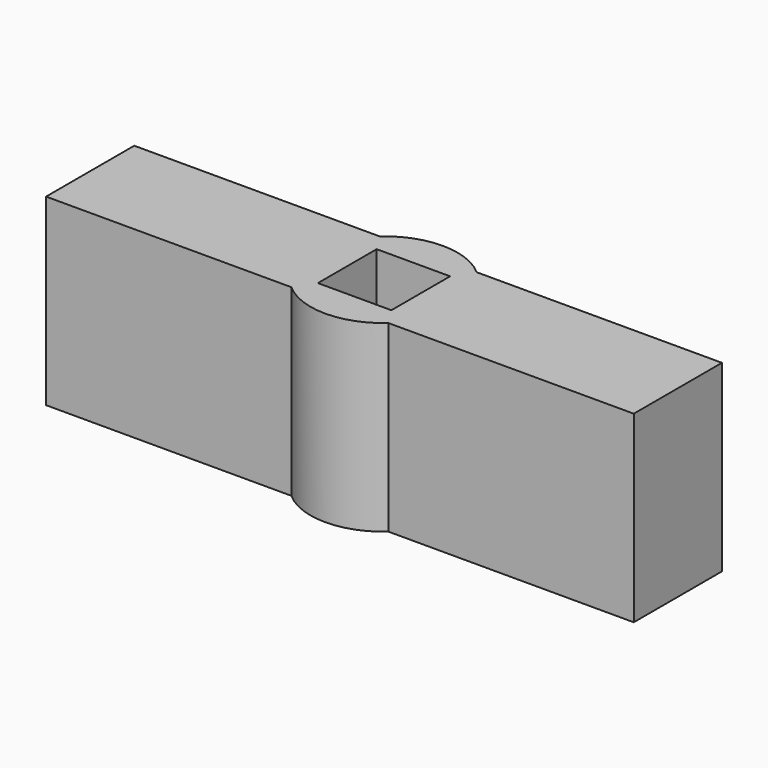
from build123d import *

# Parameters (mm, degrees)
BOX001_W       = 2
BOX001_H       = 2
BOX001_DEPTH   = 10
BOX_W          = 16
BOX_H          = 3
BOX_DEPTH      = 5
CYLINDER_R     = 2
CYLINDER_DEPTH = 5


with BuildPart() as cube001:
    # Box001 → Box001 (new body)
    with BuildSketch(Plane(origin=(-1, -1, 0), x_dir=(1, 0, 0), z_dir=(0, 0, 1))):
        with Locations((1, 1)):
            Rectangle(BOX001_W, BOX001_H)
    extrude(amount=BOX001_DEPTH)


with BuildPart() as cube:
    # Box → Box (new body)
    with BuildSketch(Plane(origin=(-8, -1.5, 0), x_dir=(1, 0, 0), z_dir=(0, 0, 1))):
        with Locations((8, 1.5)):
            Rectangle(BOX_W, BOX_H)
    extrude(amount=BOX_DEPTH)


with BuildPart() as cut:
    # Cylinder → Cylinder (new body)
    with BuildSketch(Plane.XY):
        Circle(CYLINDER_R)
    extrude(amount=CYLINDER_DEPTH)

    # Fusion: union Cube
    add(cube.part)

    # Cut: cut Cube001
    add(cube001.part, mode=Mode.SUBTRACT)


solid = cut.part
